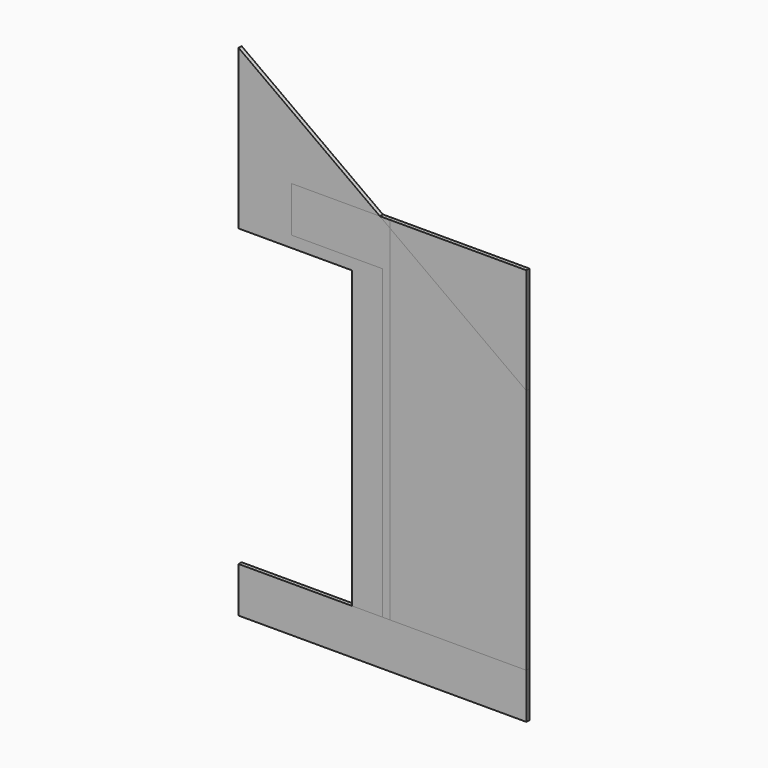
from build123d import *

# Parameters (mm, degrees)
F1_DEPTH = 25.4
F2_DEPTH = 25.4
F3_DEPTH = 25.4


with BuildPart() as f1:
    # F0 (on Front) → F1 (new body)
    with BuildSketch(Plane.XZ):
        Polygon((-965.2, 0), (-914.4, 0), (-914.4, 2312.736842), (-982.749091, 2362.2), (-1574.8, 2362.2), (-1574.8, 2057.4), (-965.2, 2057.4), align=None)
        Polygon((-914.4, 2362.2), (-914.4, 2312.736842), (0, 1651), (0, 2362.2), align=None)
    extrude(amount=F1_DEPTH)


with BuildPart() as f2:
    # F0 (on Front) → F2 (new body)
    with BuildSketch(Plane.XZ):
        Polygon((-1168.4, 0), (-965.2, 0), (-965.2, 2057.4), (-1574.8, 2057.4), (-1574.8, 2362.2), (-982.749091, 2362.2), (-1930.4, 3048), (-1930.4, 1981.2), (-1168.4, 1981.2), align=None)
        Polygon((-982.749091, 2362.2), (-914.4, 2312.736842), (-914.4, 2362.2), align=None)
        Polygon((-914.4, 2312.736842), (-914.4, 0), (0, 0), (0, 1651), align=None)
    extrude(amount=F2_DEPTH)


with BuildPart() as f3:
    # F0 (on Front) → F3 (new body)
    with BuildSketch(Plane.XZ):
        Polygon((0, 0), (-914.4, 0), (-965.2, 0), (-1168.4, 0), (-1930.4, 0), (-1930.4, -304.8), (0, -304.8), align=None)
    extrude(amount=F3_DEPTH)


solid = Compound([f1.part, f2.part, f3.part])
